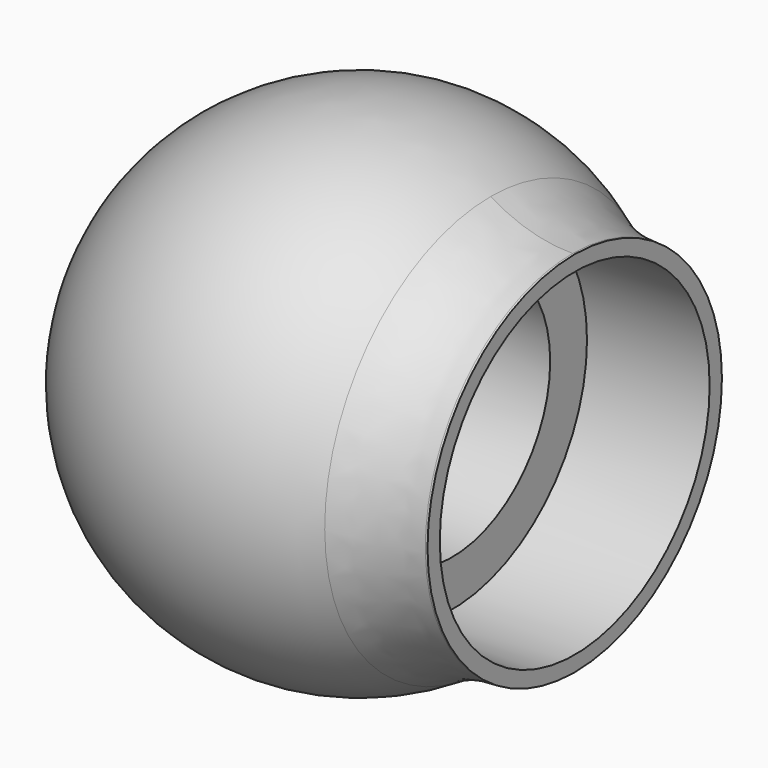
from build123d import *

# Parameters (mm, degrees)
F2_R      = 20
F3_DEPTH  = 61.6
F5_R      = 30
F5_R_2    = 20
F6_DEPTH  = 35
F7_R      = 27.5
F7_R_2    = 20
F8_DEPTH  = 20
F9_R      = 25
F10_W     = 8
F10_H     = 13.5
F11_DEPTH = 17.5
F12_W     = 8
F12_H     = 13.5


with BuildPart() as f1:
    # F0 (on Front) → F1 (revolve)
    with BuildSketch(Plane.XZ):
        with BuildLine():
            ThreePointArc((40, 0), (0, 40), (-40, 0))
            Line((-40, 0), (40, 0))
        make_face()
    revolve(axis=Axis((0, 0, 0), (1, 0, 0)))

    # F2 (on Right) → F3 (cut)
    with BuildSketch(Plane.YZ):
        Circle(F2_R)
    extrude(amount=F3_DEPTH, mode=Mode.SUBTRACT)

    # F5 (on Right) → F6 (join)
    with BuildSketch(Plane.YZ):
        Circle(F5_R)
        Circle(F5_R_2, mode=Mode.SUBTRACT)
    extrude(amount=F6_DEPTH)

    # F7 (on face) → F8 (cut)
    with BuildSketch(Plane.YZ.offset(35)):
        Circle(F7_R)
        Circle(F7_R_2, mode=Mode.SUBTRACT)
    extrude(amount=-F8_DEPTH, mode=Mode.SUBTRACT)

    # F9
    f9_edges = [f1.edges().sort_by_distance(p)[0] for p in [
        (26.457513, 21.213203, 21.213203),
        (26.457513, -21.213203, -21.213203),
    ]]
    fillet(f9_edges, radius=F9_R)

    # F10 (on face) → F11 (cut)
    with BuildSketch(Plane.YZ):
        with BuildLine():
            ThreePointArc((3.8518622015, 13.5), (-0.1481377985, 17.5), (-4.1481377985, 13.5))
            Line((-4.1481377985, 13.5), (3.8518622015, 13.5))
        make_face()
        with Locations((-0.1481377985, 6.75)):
            Rectangle(F10_W, F10_H)
        with Locations((-0.1481377985, -6.75)):
            Rectangle(F10_W, F10_H)
        with BuildLine():
            Line((3.8518622015, -13.5), (-4.1481377985, -13.5))
            ThreePointArc((-4.1481377985, -13.5), (-0.1481377985, -17.5), (3.8518622015, -13.5))
        make_face()
    extrude(amount=-F11_DEPTH, mode=Mode.SUBTRACT)

    # F12 (on face) → F13 (revolve, cut)
    with BuildSketch(Plane.YZ.offset(-17.5)):
        with BuildLine():
            ThreePointArc((3.8518622015, 13.5), (-0.1481377985, 17.5), (-4.1481377985, 13.5))
            Line((-4.1481377985, 13.5), (3.8518622015, 13.5))
        make_face()
        with Locations((-0.1481377985, 6.75)):
            Rectangle(F12_W, F12_H)
    revolve(axis=Axis((-17.5, -0.1481377985, 0), (0, -1, 0)), mode=Mode.SUBTRACT)


solid = f1.part
